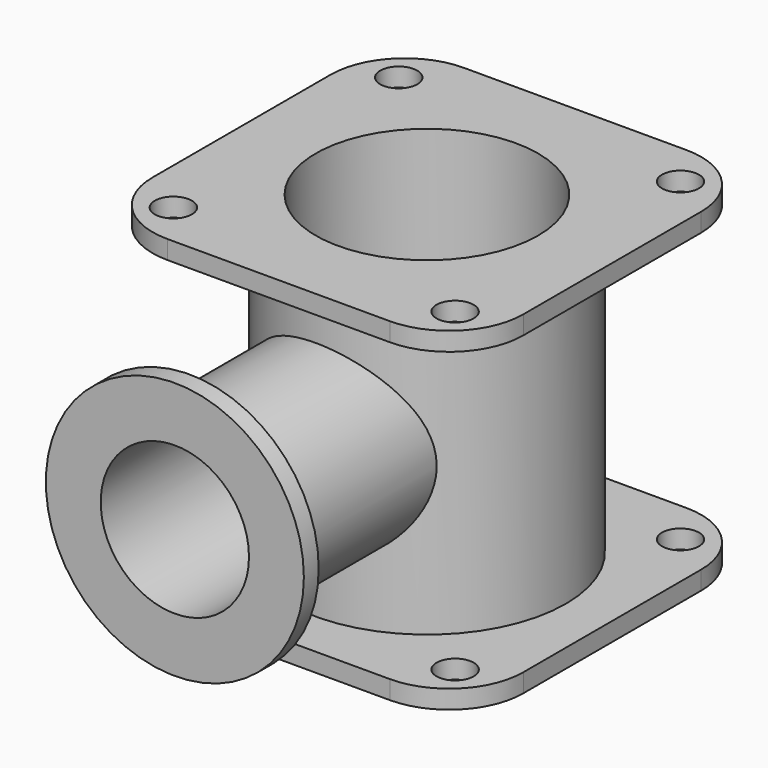
from build123d import *

# Parameters (mm, degrees)
F1_DEPTH  = 6.35
F2_R      = 25.4
F3_R      = 47.625
F4_DEPTH  = 101.6
F6_DEPTH  = 6.35
F7_R      = 25.4
F8_R      = 31.75
F9_DEPTH  = 101.6
F10_R     = 44.20165183
F10_R_2   = 31.75
F11_DEPTH = 6.35
F12_R     = 38.1
F13_DEPTH = 114.3
F14_R     = 25.4
F15_DEPTH = 88.9
F16_R     = 6.35
F17_DEPTH = 114.3


with BuildPart() as f1:
    # F0 (on Top) → F1 (new body)
    with BuildSketch(Plane.XY):
        Polygon((63.5, 63.5), (0, 63.5), (-63.5, 63.5), (-63.5, 0), (-63.5, -63.5), (0, -63.5), (63.5, -63.5), (63.5, 0), align=None)
    extrude(amount=F1_DEPTH)

    # F2
    f2_edges = [f1.edges().sort_by_distance(p)[0] for p in [
        (63.5, -63.5, 3.175),
        (63.5, 63.5, 3.175),
        (-63.5, -63.5, 3.175),
        (-63.5, 63.5, 3.175),
    ]]
    fillet(f2_edges, radius=F2_R)

    # F3 (on face) → F4 (join)
    with BuildSketch(Plane.XY.offset(6.35)):
        Circle(F3_R)
    extrude(amount=F4_DEPTH)

    # F5 (on face) → F6 (join)
    with BuildSketch(Plane.XY.offset(107.95)):
        Polygon((63.5, 63.5), (0, 63.5), (-63.5, 63.5), (-63.5, 0), (-63.5, -63.5), (0, -63.5), (63.5, -63.5), (63.5, 0), align=None)
    extrude(amount=F6_DEPTH)

    # F7
    f7_edges = [f1.edges().sort_by_distance(p)[0] for p in [
        (63.5, -63.5, 111.125),
        (-63.5, -63.5, 111.125),
        (63.5, 63.5, 111.125),
        (-63.5, 63.5, 111.125),
    ]]
    fillet(f7_edges, radius=F7_R)

    # F8 (on Front) → F9 (join)
    with BuildSketch(Plane.XZ):
        with Locations((0, 57.15)):
            Circle(F8_R)
    extrude(amount=F9_DEPTH)

    # F10 (on face) → F11 (join)
    with BuildSketch(Plane.XZ.offset(101.6)):
        with Locations((0, 57.15)):
            Circle(F10_R)
        with Locations((0, 57.15)):
            Circle(F10_R_2, mode=Mode.SUBTRACT)
        with Locations((0, 57.15)):
            Circle(F10_R_2)
    extrude(amount=F11_DEPTH)

    # F12 (on face) → F13 (cut)
    with BuildSketch(Plane.XY.offset(114.3)):
        Circle(F12_R)
    extrude(amount=-F13_DEPTH, mode=Mode.SUBTRACT)

    # F14 (on face) → F15 (cut)
    with BuildSketch(Plane.XZ.offset(107.95)):
        with Locations((0, 57.15)):
            Circle(F14_R)
    extrude(amount=-F15_DEPTH, mode=Mode.SUBTRACT)

    # F16 (on face) → F17 (cut)
    with BuildSketch(Plane.XY.offset(114.3)):
        with Locations((-48.26, 48.26)):
            Circle(F16_R)
        with Locations((48.26, 48.26)):
            Circle(F16_R)
        with Locations((48.26, -48.26)):
            Circle(F16_R)
        with Locations((-48.26, -48.26)):
            Circle(F16_R)
    extrude(amount=-F17_DEPTH, mode=Mode.SUBTRACT)


solid = f1.part
